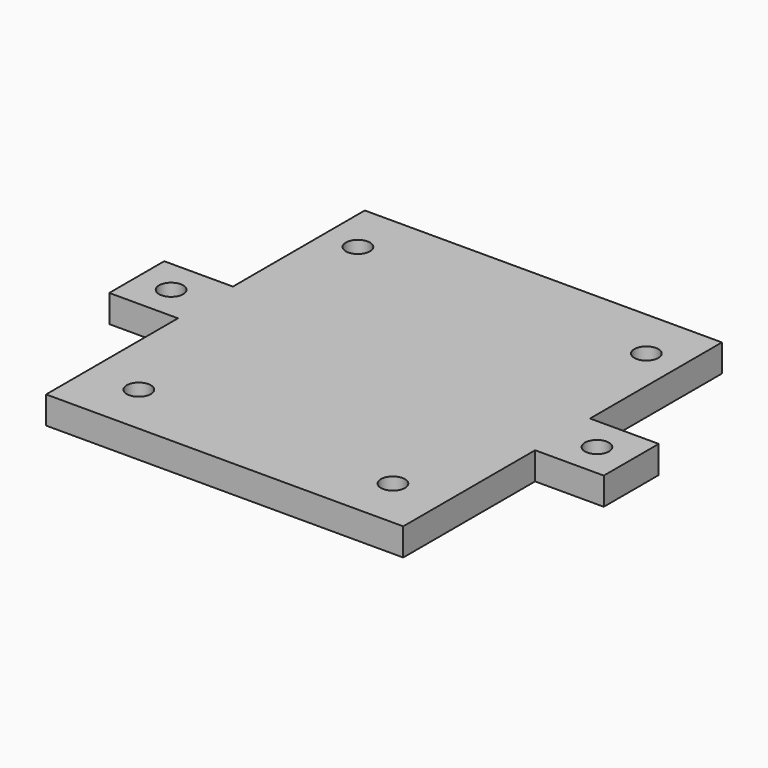
from build123d import *

# Parameters (mm, degrees)
F1_DEPTH = 4
F2_W     = 34.5
F2_H     = 45.5
F3_DEPTH = 1
F4_R     = 1.75
F5_DEPTH = 25


with BuildPart() as f1:
    # F0 (on Top) → F1 (new body)
    with BuildSketch(Plane.XY):
        Polygon((26, 5), (26, 29), (-26, 29), (-26, 5), (-36, 5), (-36, -5), (-26, -5), (-26, -29), (26, -29), (26, -5), (36, -5), (36, 5), align=None)
    extrude(amount=F1_DEPTH)

    # F2 (on Top) → F3 (cut)
    with BuildSketch(Plane.XY):
        with Locations((0, 5.032895)):
            Rectangle(F2_W, F2_H)
    extrude(amount=F3_DEPTH, mode=Mode.SUBTRACT)

    # F4 (on Top) → F5 (cut)
    with BuildSketch(Plane.XY):
        with Locations((-18.500006, -21.499975)):
            Circle(F4_R)
        with Locations((18.49998, -21.499971)):
            Circle(F4_R)
        with Locations((-20.999989, 21.499986)):
            Circle(F4_R)
        with Locations((21.000014, 21.499973)):
            Circle(F4_R)
        with Locations((-30.999894, 0)):
            Circle(F4_R)
        with Locations((30.99998, 0)):
            Circle(F4_R)
    extrude(amount=F5_DEPTH, mode=Mode.SUBTRACT)


solid = f1.part
